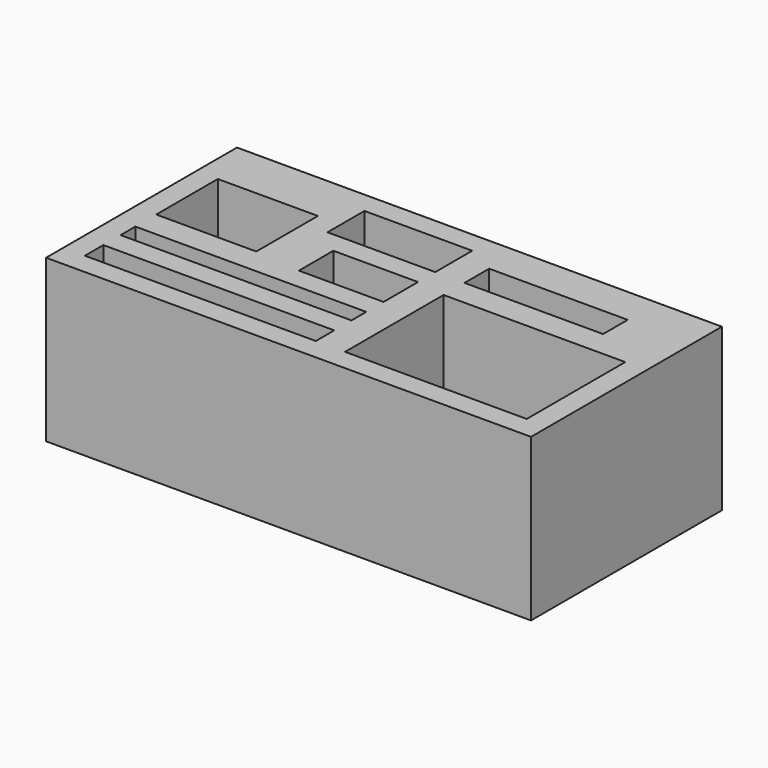
from build123d import *

# Parameters (mm, degrees)
F0_W      = 315
F0_H      = 155
F1_DEPTH  = 105
F2_W      = 118
F2_H      = 80
F3_DEPTH  = 70
F4_W      = 65
F4_H      = 50
F5_DEPTH  = 57
F6_W      = 150
F6_H      = 15
F7_DEPTH  = 100
F8_W      = 150
F8_H      = 12
F9_DEPTH  = 75
F10_W     = 55
F10_H     = 28
F11_DEPTH = 55
F12_W     = 70
F12_H     = 30
F13_DEPTH = 100
F14_W     = 90
F14_H     = 20
F15_DEPTH = 90


with BuildPart() as f1:
    # F0 (on Top) → F1 (new body)
    with BuildSketch(Plane.XY):
        with Locations((-126.290321, 61.441531)):
            Rectangle(F0_W, F0_H)
    extrude(amount=F1_DEPTH)

    # F2 (on face) → F3 (cut)
    with BuildSketch(Plane.XY.offset(105)):
        with Locations((-41.790321, 37.941531)):
            Rectangle(F2_W, F2_H)
    extrude(amount=-F3_DEPTH, mode=Mode.SUBTRACT)

    # F4 (on face) → F5 (cut)
    with BuildSketch(Plane.XY.offset(105)):
        with Locations((-237.290321, 80.884401)):
            Rectangle(F4_W, F4_H)
    extrude(amount=-F5_DEPTH, mode=Mode.SUBTRACT)

    # F6 (on face) → F7 (cut)
    with BuildSketch(Plane.XY.offset(105)):
        with Locations((-194.790321, 5.441531)):
            Rectangle(F6_W, F6_H)
    extrude(amount=-F7_DEPTH, mode=Mode.SUBTRACT)

    # F8 (on face) → F9 (cut)
    with BuildSketch(Plane.XY.offset(105)):
        with Locations((-194.790321, 32.941531)):
            Rectangle(F8_W, F8_H)
    extrude(amount=-F9_DEPTH, mode=Mode.SUBTRACT)

    # F10 (on face) → F11 (cut)
    with BuildSketch(Plane.XY.offset(105)):
        with Locations((-147.290321, 66.941531)):
            Rectangle(F10_W, F10_H)
    extrude(amount=-F11_DEPTH, mode=Mode.SUBTRACT)

    # F12 (on face) → F13 (cut)
    with BuildSketch(Plane.XY.offset(105)):
        with Locations((-154.790321, 109.941531)):
            Rectangle(F12_W, F12_H)
    extrude(amount=-F13_DEPTH, mode=Mode.SUBTRACT)

    # F14 (on face) → F15 (cut)
    with BuildSketch(Plane.XY.offset(105)):
        with Locations((-55.790321, 104.941531)):
            Rectangle(F14_W, F14_H)
    extrude(amount=-F15_DEPTH, mode=Mode.SUBTRACT)


solid = f1.part
